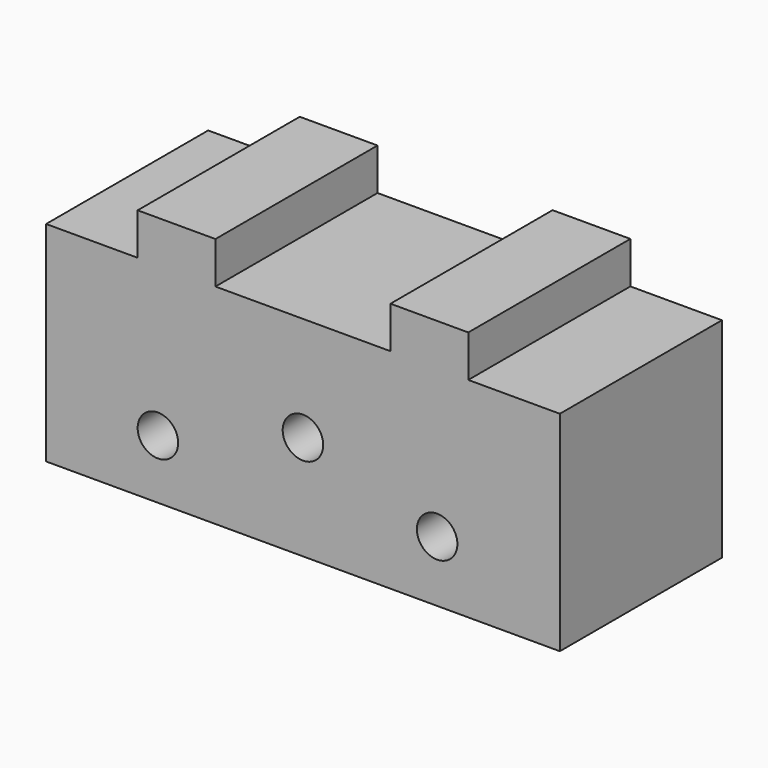
from build123d import *

# Parameters (mm, degrees)
F0_R     = 2.5
F0_W     = 9.6
F0_H     = 5.160006
F1_DEPTH = 25


with BuildPart() as f1:
    # F0 (on Front) → F1 (new body)
    with BuildSketch(Plane.XZ):
        Polygon((-31.7, 12.9), (-31.7, -12.9), (31.7, -12.9), (31.7, 12.9), (20.4, 12.9), (10.8, 12.9), (-10.8, 12.9), (-20.4, 12.9), align=None)
        with Locations((-17.9, -5.589999)):
            Circle(F0_R, mode=Mode.SUBTRACT)
        Circle(F0_R, mode=Mode.SUBTRACT)
        with Locations((16.555004, -5.374999)):
            Circle(F0_R, mode=Mode.SUBTRACT)
        with Locations((-15.6, 15.480003)):
            Rectangle(F0_W, F0_H)
        with Locations((15.6, 15.480003)):
            Rectangle(F0_W, F0_H)
    extrude(amount=F1_DEPTH)


solid = f1.part
